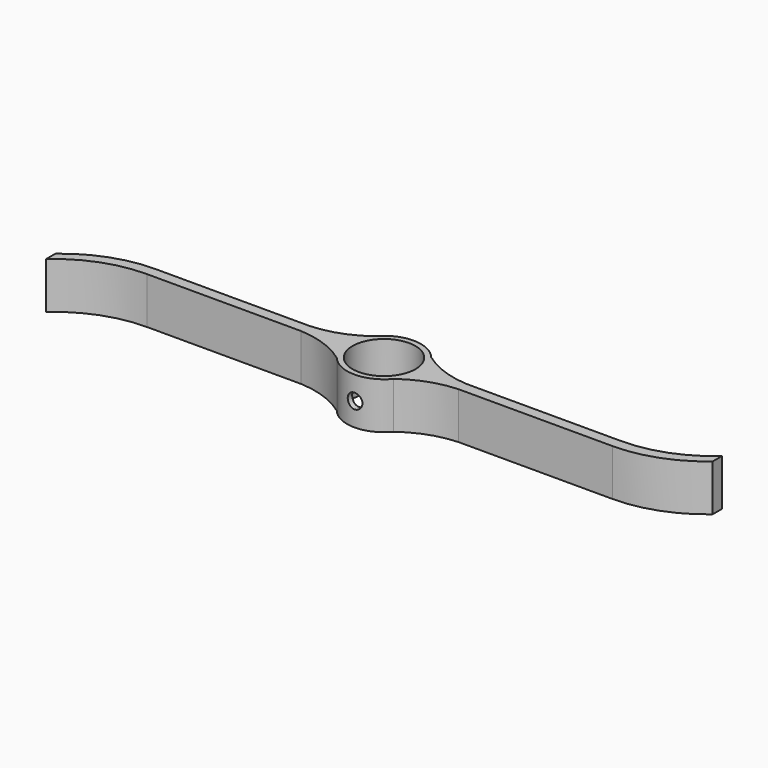
from build123d import *

# Parameters (mm, degrees)
F0_R     = 8.1
F1_DEPTH = 12
F3_R     = 1.9
F4_DEPTH = 8


with BuildPart() as f1:
    # F0 (on Top) → F1 (new body)
    with BuildSketch(Plane.XY):
        with BuildLine():
            ThreePointArc((20.273315, 1.4), (13.451832, 2.761331), (7.323177, 6.051535))
            ThreePointArc((7.323177, 6.051535), (0, 9.5), (-7.323177, 6.051535))
            ThreePointArc((-7.323177, 6.051535), (-13.451832, 2.761331), (-20.273315, 1.4))
            Line((-20.273315, 1.4), (-60, 1.4))
            ThreePointArc((-60, 1.4), (-70.616273, -0.498037), (-79.917222, -5.956986))
            Line((-79.917222, -5.956986), (-79.917222, -8.956986))
            ThreePointArc((-79.917222, -8.956986), (-70.651335, -3.352746), (-60, -1.4))
            Line((-60, -1.4), (-20.273315, -1.4))
            ThreePointArc((-20.273315, -1.4), (-13.451832, -2.761331), (-7.323177, -6.051535))
            ThreePointArc((-7.323177, -6.051535), (0, -9.5), (7.323177, -6.051535))
            ThreePointArc((7.323177, -6.051535), (13.451832, -2.761331), (20.273315, -1.4))
            Line((20.273315, -1.4), (60, -1.4))
            ThreePointArc((60, -1.4), (70.616273, 0.498037), (79.917222, 5.956986))
            Line((79.917222, 5.956986), (79.917222, 8.956986))
            ThreePointArc((79.917222, 8.956986), (70.651335, 3.352746), (60, 1.4))
            Line((60, 1.4), (20.273315, 1.4))
        make_face()
        Circle(F0_R, mode=Mode.SUBTRACT)
    extrude(amount=F1_DEPTH)

    # F3 (on offset) → F4 (cut)
    with BuildSketch(Plane.XZ.offset(9.5)):
        with Locations((0, 6)):
            Circle(F3_R)
    extrude(amount=-F4_DEPTH, mode=Mode.SUBTRACT)


solid = f1.part
